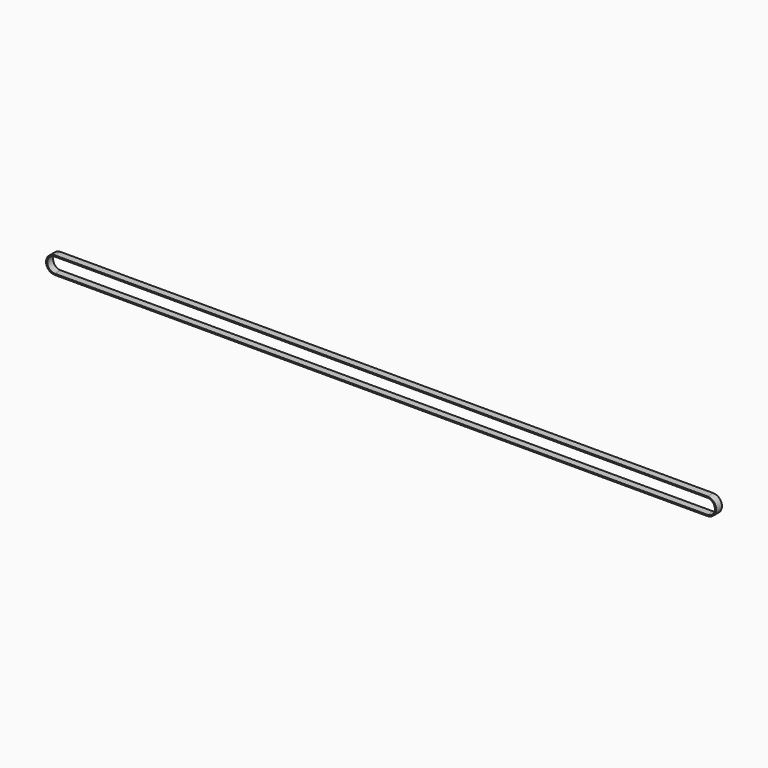
from build123d import *

# Parameters (mm, degrees)
PAD010_DEPTH = 3


with BuildPart() as part:
    # Sketch022 → Pad010 (new body, symmetric)
    with BuildSketch(Plane.XZ):
        with BuildLine():
            ThreePointArc((0.000532, 7.163), (-7.163, 0.000532), (-0.000532, -7.163))
            Line((-0.000532, -7.163), (538.329468, -7.203))
            ThreePointArc((538.329468, -7.203), (545.493, -0.040532), (538.330532, 7.123))
            Line((0.000532, 7.163), (538.330532, 7.123))
        make_face()
        with BuildLine():
            ThreePointArc((0.000458, 6.163), (-6.163, 0.000458), (-0.000458, -6.163))
            Line((-0.000458, -6.163), (538.329542, -6.203))
            ThreePointArc((538.329542, -6.203), (544.493, -0.040458), (538.330458, 6.123))
            Line((0.000458, 6.163), (538.330458, 6.123))
        make_face(mode=Mode.SUBTRACT)
    extrude(amount=PAD010_DEPTH, both=True)


solid = part.part
